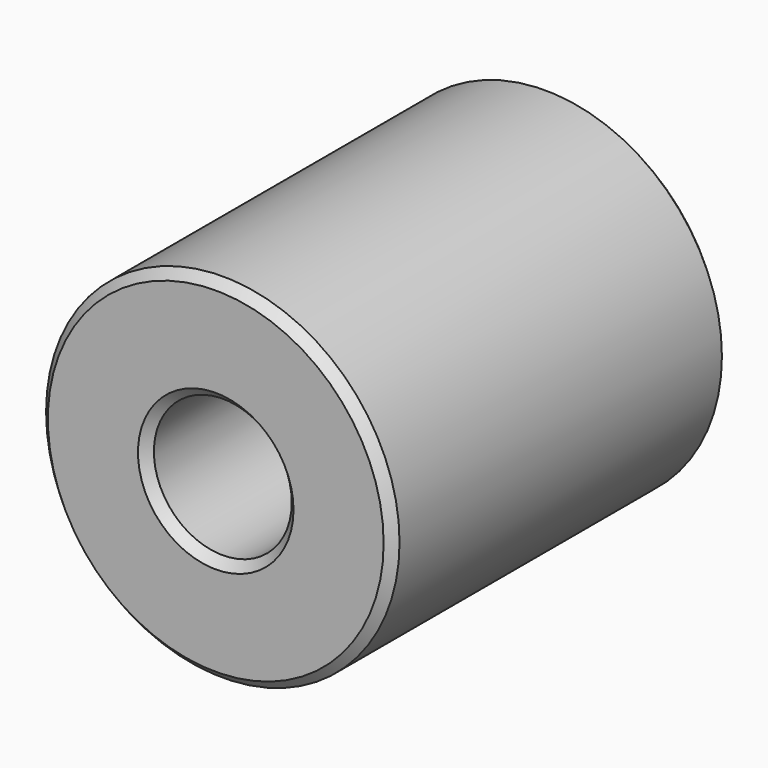
from build123d import *

# Parameters (mm, degrees)
F0_R     = 12.7
F0_R_2   = 4.953
F1_DEPTH = 30.226
F2_SIZE  = 0.635


with BuildPart() as f1:
    # F0 (on Front) → F1 (new body)
    with BuildSketch(Plane.XZ):
        Circle(F0_R)
        Circle(F0_R_2, mode=Mode.SUBTRACT)
    extrude(amount=-F1_DEPTH)

    # F2
    f2_edges = [f1.edges().sort_by_distance(p)[0] for p in [
        (-12.7, 0, 0),
        (-4.953, 0, 0),
        (-12.7, 30.226, 0),
        (-4.953, 30.226, 0),
    ]]
    chamfer(f2_edges, length=F2_SIZE)


solid = f1.part
